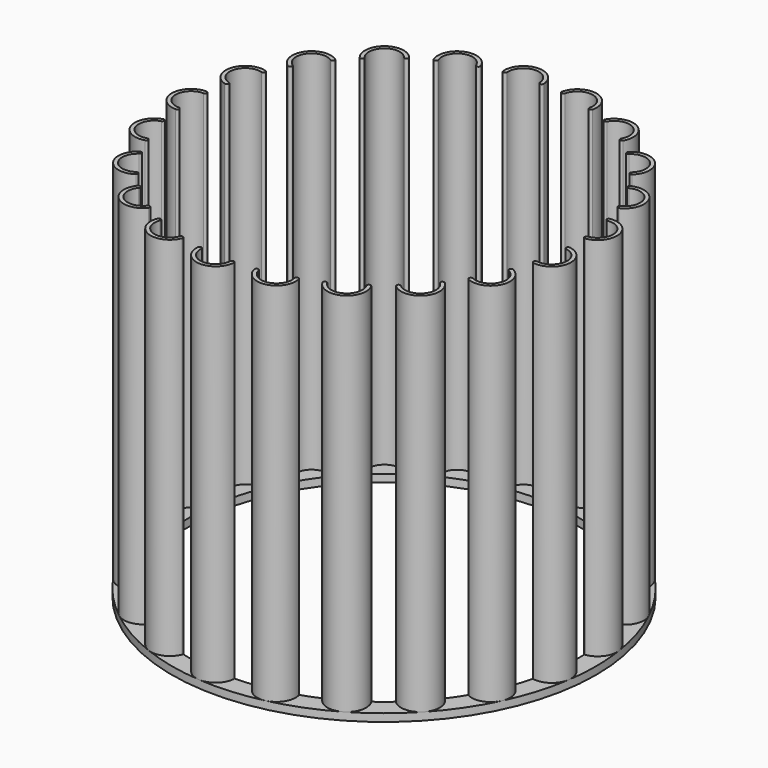
from build123d import *

# Parameters (mm, degrees)
SKETCH_R           = 55
SKETCH_R_2         = 50
PAD_DEPTH          = 2
PAD001_DEPTH       = 95
POLARPATTERN_COUNT = 21


with BuildPart() as part:
    # Sketch → Pad (new body)
    with BuildSketch(Plane.XY):
        Circle(SKETCH_R)
        Circle(SKETCH_R_2, mode=Mode.SUBTRACT)
    extrude(amount=PAD_DEPTH)

    # Sketch001 (on Face4 of Pad) → Pad001 (join)
    with BuildSketch(Plane.XY.offset(2)):
        with BuildLine():
            ThreePointArc((-50, 5), (-55, 0), (-50, -5))
            ThreePointArc((-50, -5), (-49.5, -4.5), (-50, -4))
            ThreePointArc((-50, 4), (-54, 0), (-50, -4))
            ThreePointArc((-50, 4), (-49.5, 4.5), (-50, 5))
        make_face()
    pad001 = extrude(amount=PAD001_DEPTH)

    # PolarPattern: Pad001 ×21 about axis
    polarpattern_axis = Axis((0, 0, 2), (0, 0, 1))
    for i in range(1, POLARPATTERN_COUNT):
        add(pad001.rotate(polarpattern_axis, i * 360 / POLARPATTERN_COUNT))


solid = part.part
